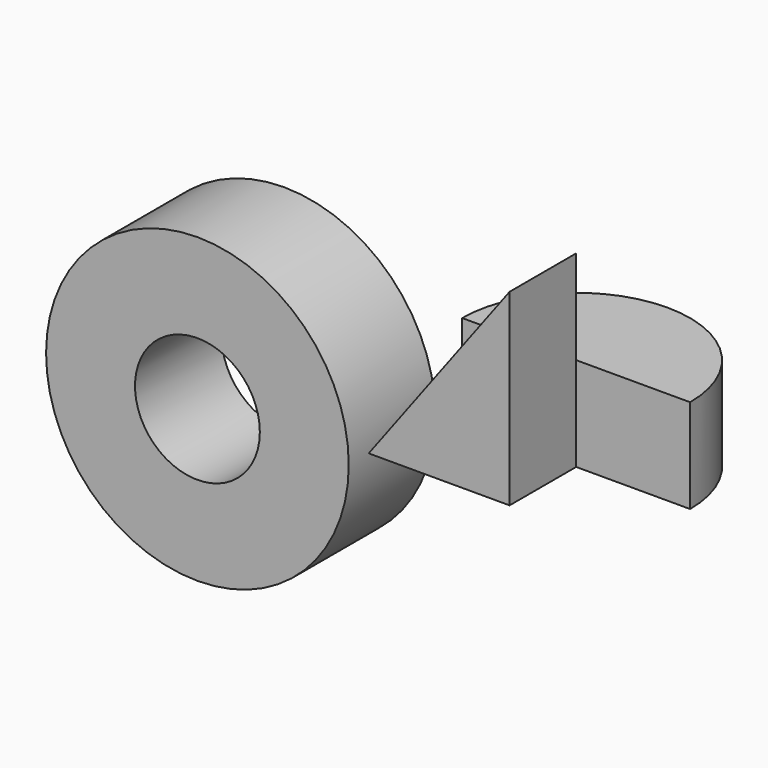
from build123d import *

# Parameters (mm, degrees)
F0_R     = 46.1841337383
F1_DEPTH = 33.02
F2_DEPTH = 25.4
F6_W     = 34.7768329084
F6_H     = 28.6970213056
F3_ANGLE = 180
F4_R     = 19.05
F5_DEPTH = 33.02


with BuildPart() as f1:
    # F0 (on Front) → F1 (new body)
    with BuildSketch(Plane.XZ):
        with Locations((-46.1841337383, 0)):
            Circle(F0_R)
    extrude(amount=F1_DEPTH)

    # F4 (on face) → F5 (cut, through all)
    with BuildSketch(Plane.XZ):
        with Locations((-46.1841337383, 0)):
            Circle(F4_R)
    extrude(amount=F5_DEPTH, mode=Mode.SUBTRACT)


with BuildPart() as f2:
    # F6 (on Front) → F2 (new body)
    with BuildSketch(Plane.XZ):
        Polygon((42.9837293923, 28.6970213056), (42.9837293923, 57.3940426111), (0, 0), (42.9837293923, 0), align=None)
    extrude(amount=F2_DEPTH)

    # F6 (on Front) → F3 (revolve)
    with BuildSketch(Plane.XZ):
        with Locations((60.3721458465, 14.3485106528)):
            Rectangle(F6_W, F6_H)
    revolve(axis=Axis((42.9837293923, 0, 28.6970213056), (0, 0, 1)), revolution_arc=F3_ANGLE)


solid = Compound([f1.part, f2.part])
